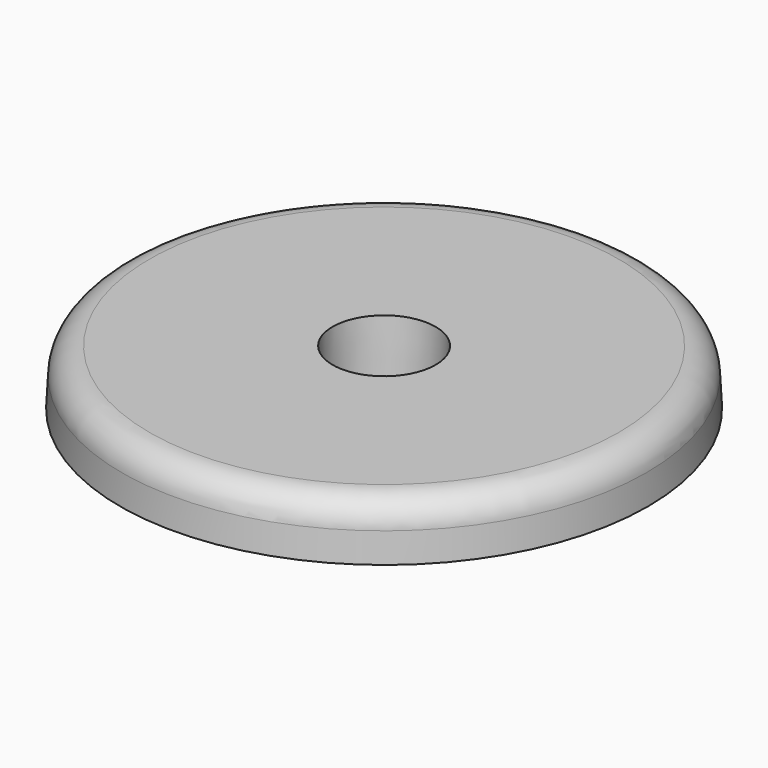
from build123d import *

# Parameters (mm, degrees)
F0_R     = 19
F0_R_2   = 3.5
F1_DEPTH = 4
F1_TAPER = 3
F2_R     = 2


with BuildPart() as f1:
    # F0 (on Top) → F1 (new body)
    with BuildSketch(Plane.XY):
        Circle(F0_R)
        Circle(F0_R_2, mode=Mode.SUBTRACT)
    extrude(amount=F1_DEPTH, taper=F1_TAPER)

    # F2
    f2_edges = [f1.edges().sort_by_distance(p)[0] for p in [
        (-18.790369, 0, 4),
    ]]
    fillet(f2_edges, radius=F2_R)


solid = f1.part
